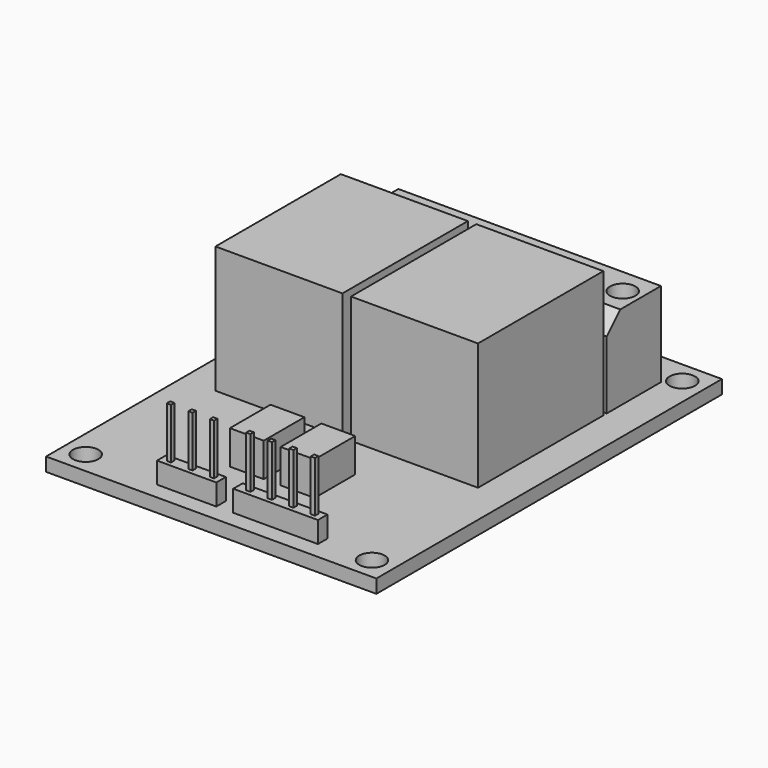
from build123d import *

# Parameters (mm, degrees)
F0_W      = 39
F0_H      = 51
F0_R      = 1.5
F1_DEPTH  = 1.6
F2_W      = 15
F2_H      = 18.5
F3_DEPTH  = 15
F4_W      = 31
F4_H      = 8
F5_DEPTH  = 10
F6_SIZE   = 2
F7_R      = 1.5
F8_DEPTH  = 3
F9_W      = 4
F9_H      = 6
F10_DEPTH = 4
F11_W     = 7
F11_H     = 1.406925
F11_W_2   = 10
F12_DEPTH = 2.5
F13_W     = 0.5
F13_H     = 0.5
F14_DEPTH = 6


with BuildPart() as f1:
    # F0 (on Top) → F1 (new body)
    with BuildSketch(Plane.XY):
        Rectangle(F0_W, F0_H)
        with Locations((-16.9, -22.9)):
            Circle(F0_R, mode=Mode.SUBTRACT)
        with Locations((16.9, -22.9)):
            Circle(F0_R, mode=Mode.SUBTRACT)
        with Locations((-16.9, 22.9)):
            Circle(F0_R, mode=Mode.SUBTRACT)
        with Locations((16.9, 22.9)):
            Circle(F0_R, mode=Mode.SUBTRACT)
    extrude(amount=F1_DEPTH)

    # F2 (on face) → F3 (join)
    with BuildSketch(Plane.XY.offset(1.6)):
        with Locations((-8, 3.75)):
            Rectangle(F2_W, F2_H)
        with Locations((8, 3.75)):
            Rectangle(F2_W, F2_H)
    extrude(amount=F3_DEPTH)

    # F4 (on face) → F5 (join)
    with BuildSketch(Plane.XY.offset(1.6)):
        with Locations((0, 17.5)):
            Rectangle(F4_W, F4_H)
    extrude(amount=F5_DEPTH)

    # F6
    f6_edges = [f1.edges().sort_by_distance(p)[0] for p in [
        (0, 13.5, 11.6),
    ]]
    chamfer(f6_edges, length=F6_SIZE)

    # F7 (on face) → F8 (cut)
    with BuildSketch(Plane.XY.offset(11.6)):
        with Locations((-13.25, 18.5)):
            Circle(F7_R)
        with Locations((-8.25, 18.5)):
            Circle(F7_R)
        with Locations((-3.25, 18.5)):
            Circle(F7_R)
        with Locations((3.386981, 18.5)):
            Circle(F7_R)
        with Locations((8.386981, 18.5)):
            Circle(F7_R)
        with Locations((13.386981, 18.5)):
            Circle(F7_R)
    extrude(amount=-F8_DEPTH, mode=Mode.SUBTRACT)

    # F9 (on face) → F10 (join)
    with BuildSketch(Plane.XY.offset(1.6)):
        with Locations((-3, -13.5)):
            Rectangle(F9_W, F9_H)
        with Locations((3, -13.5)):
            Rectangle(F9_W, F9_H)
    extrude(amount=F10_DEPTH)

    # F11 (on face) → F12 (join)
    with BuildSketch(Plane.XY.offset(1.6)):
        with Locations((-4.5, -22.796537)):
            Rectangle(F11_W, F11_H)
        with Locations((6, -22.796537)):
            Rectangle(F11_W_2, F11_H)
    extrude(amount=F12_DEPTH)

    # F13 (on face) → F14 (join)
    with BuildSketch(Plane.XY.offset(4.1)):
        with Locations((-7, -22.75)):
            Rectangle(F13_W, F13_H)
        with Locations((-4.46, -22.75)):
            Rectangle(F13_W, F13_H)
        with Locations((-1.92, -22.75)):
            Rectangle(F13_W, F13_H)
        with Locations((2.38, -22.75)):
            Rectangle(F13_W, F13_H)
        with Locations((4.92, -22.75)):
            Rectangle(F13_W, F13_H)
        with Locations((7.46, -22.75)):
            Rectangle(F13_W, F13_H)
        with Locations((10, -22.75)):
            Rectangle(F13_W, F13_H)
    extrude(amount=F14_DEPTH)


solid = f1.part
